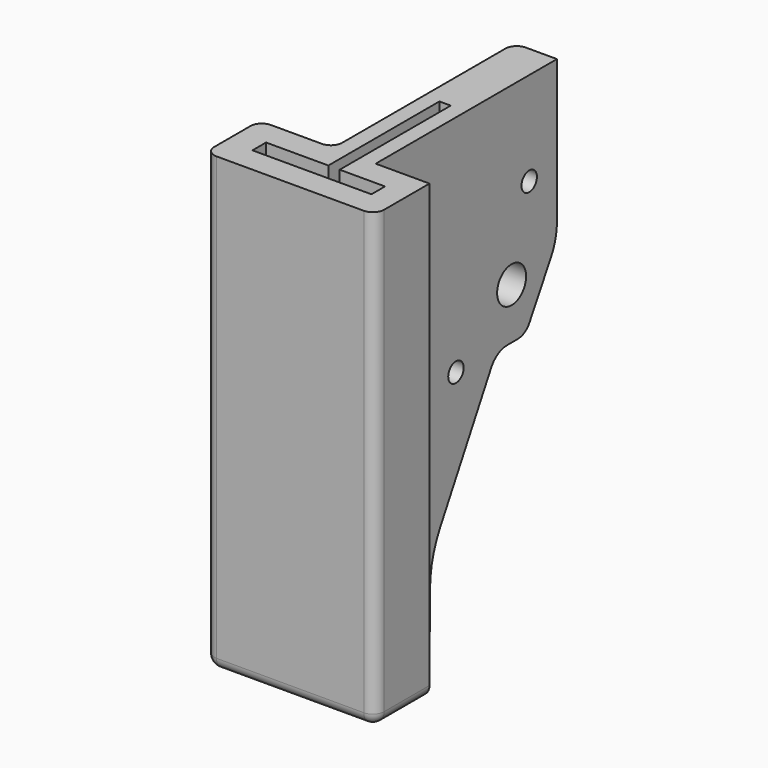
from build123d import *

# Parameters (mm, degrees)
PAD_DEPTH       = 80
POCKET_DEPTH    = 76
SKETCH002_R     = 1.7
SKETCH002_R_2   = 3.2
POCKET001_DEPTH = 17.001
POCKET002_DEPTH = 5
FILLET_R        = 3
FILLET001_R     = 3
FILLET002_R     = 2
FILLET003_R     = 2
FILLET004_R     = 2
FILLET005_R     = 2
FILLET006_R     = 3
FILLET007_R     = 10
FILLET008_R     = 2
FILLET009_R     = 1
CHAMFER_SIZE    = 1.7
CHAMFER001_SIZE = 1.7
CHAMFER002_SIZE = 1.7
CHAMFER003_SIZE = 1.7
CHAMFER004_SIZE = 1.7


with BuildPart() as chamfer004:
    # Sketch → Pad (new body)
    with BuildSketch(Plane.XY):
        Polygon((-3.75, 0), (-3.75, 40), (3.75, 40), (3.75, 18), (3.75, 0), (13.25, 0), (13.25, -12), (-16.75, -12), (-16.75, 0), align=None)
    extrude(amount=PAD_DEPTH)

    # Sketch001 → Pocket (cut)
    with BuildSketch(Plane.XY.offset(80)):
        with BuildLine():
            Line((1, -2.8), (1, 19.2))
            ThreePointArc((1, 19.2), (0.765685, 19.765685), (0.2, 20))
            Line((0.2, 20), (-0.2, 20))
            ThreePointArc((-0.2, 20), (-0.765685, 19.765685), (-1, 19.2))
            Line((-1, 19.2), (-1, -2.8))
            Line((-1, -2.8), (-13.75, -2.8))
            Line((-13.75, -2.8), (-13.75, -9.2))
            Line((-13.75, -9.2), (10.75, -9.2))
            Line((10.75, -9.2), (10.75, -2.8))
            Line((10.75, -2.8), (1, -2.8))
        make_face()
    extrude(amount=-POCKET_DEPTH, mode=Mode.SUBTRACT)

    # Sketch002 → Pocket001 (cut, through all)
    with BuildSketch(Plane(origin=(-3.75, 0, 0), x_dir=(0, -1, 0), z_dir=(-1, 0, 0))):
        with Locations((-6, 7)):
            Circle(SKETCH002_R)
        with Locations((-6, 55)):
            Circle(SKETCH002_R)
        with Locations((-6, 75)):
            Circle(SKETCH002_R)
        with Locations((-17.712719, 39.603647)):
            Circle(SKETCH002_R)
        with Locations((-33.882286, 16.511113)):
            Circle(SKETCH002_R)
        with Locations((-30, 31)):
            Circle(SKETCH002_R_2)
        with BuildLine():
            Line((-12, 71), (-12, 90))
            Line((-12, 90), (-40, 90))
            Line((-40, 90), (-40, 28))
            Line((-40, 28), (-33.071797, 40))
            Line((-33.071797, 40), (-29, 40))
            ThreePointArc((-29, 40), (-26.972495, 40.551925), (-25.504505, 42.055389))
            Line((-25.504505, 42.055389), (-14.270271, 62.249249))
            ThreePointArc((-14.270271, 62.249249), (-12.57681, 66.479774), (-12, 71))
        make_face()
    extrude(amount=-POCKET001_DEPTH, mode=Mode.SUBTRACT)

    # Sketch003 → Pocket002 (cut)
    with BuildSketch(Plane(origin=(0, 0, 0), x_dir=(1, 0, 0), z_dir=(0, 0, -1))):
        Polygon((-12, 7.5), (9, 7.5), (9, 4.5), (1, 4.5), (1, -20), (-1, -20), (-1, 4.5), (-12, 4.5), align=None)
    extrude(amount=-POCKET002_DEPTH, mode=Mode.SUBTRACT)

    # Fillet
    fillet_edges = [chamfer004.edges().sort_by_distance(p)[0] for p in [
        (2.375, 12, 80),
    ]]
    fillet(fillet_edges, radius=FILLET_R)

    # Fillet001
    fillet001_edges = [chamfer004.edges().sort_by_distance(p)[0] for p in [
        (-2.375, 12, 80),
    ]]
    fillet(fillet001_edges, radius=FILLET001_R)

    # Fillet002
    fillet002_edges = [chamfer004.edges().sort_by_distance(p)[0] for p in [
        (-16.75, 0, 40),
    ]]
    fillet(fillet002_edges, radius=FILLET002_R)

    # Fillet003
    fillet003_edges = [chamfer004.edges().sort_by_distance(p)[0] for p in [
        (-3.75, 0, 40),
    ]]
    fillet(fillet003_edges, radius=FILLET003_R)

    # Fillet004
    fillet004_edges = [chamfer004.edges().sort_by_distance(p)[0] for p in [
        (-16.75, -12, 40),
    ]]
    fillet(fillet004_edges, radius=FILLET004_R)

    # Fillet005
    fillet005_edges = [chamfer004.edges().sort_by_distance(p)[0] for p in [
        (13.25, -12, 40),
    ]]
    fillet(fillet005_edges, radius=FILLET005_R)

    # Fillet006
    fillet006_edges = [chamfer004.edges().sort_by_distance(p)[0] for p in [
        (0, 33.071797, 40),
    ]]
    fillet(fillet006_edges, radius=FILLET006_R)

    # Fillet007
    fillet007_edges = [chamfer004.edges().sort_by_distance(p)[0] for p in [
        (0, 40, 28),
    ]]
    fillet(fillet007_edges, radius=FILLET007_R)

    # Fillet008
    fillet008_edges = [chamfer004.edges().sort_by_distance(p)[0] for p in [
        (-3.75, 40, 12.660254),
    ]]
    fillet(fillet008_edges, radius=FILLET008_R)

    # Fillet009
    fillet009_edges = [chamfer004.edges().sort_by_distance(p)[0] for p in [
        (1, 16.735136, 57.818584),
    ]]
    fillet(fillet009_edges, radius=FILLET009_R)

    # Chamfer
    chamfer_edges = [chamfer004.edges().sort_by_distance(p)[0] for p in [
        (-3.75, 35.582286, 16.511113),
    ]]
    chamfer(chamfer_edges, length=CHAMFER_SIZE)

    # Chamfer001
    chamfer001_edges = [chamfer004.edges().sort_by_distance(p)[0] for p in [
        (-3.75, 7.7, 7),
    ]]
    chamfer(chamfer001_edges, length=CHAMFER001_SIZE)

    # Chamfer002
    chamfer002_edges = [chamfer004.edges().sort_by_distance(p)[0] for p in [
        (-3.75, 19.412719, 39.603647),
    ]]
    chamfer(chamfer002_edges, length=CHAMFER002_SIZE)

    # Chamfer003
    chamfer003_edges = [chamfer004.edges().sort_by_distance(p)[0] for p in [
        (-3.75, 7.7, 55),
    ]]
    chamfer(chamfer003_edges, length=CHAMFER003_SIZE)

    # Chamfer004
    chamfer004_edges = [chamfer004.edges().sort_by_distance(p)[0] for p in [
        (-3.75, 7.7, 75),
    ]]
    chamfer(chamfer004_edges, length=CHAMFER004_SIZE)


with BuildPart() as part_mirroring:
    # Part__Mirroring: instance of Chamfer004
    add(chamfer004.part.mirror(Plane(origin=(0, 0, 0), x_dir=(0, 1, 0), z_dir=(0, 0, 1))))


solid = part_mirroring.part
